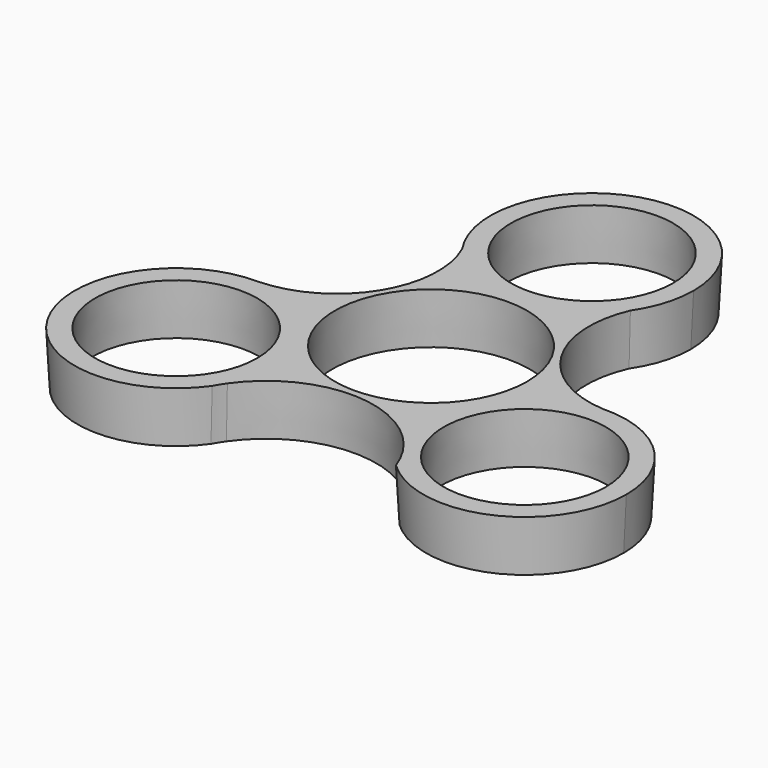
from build123d import *

# Parameters (mm, degrees)
F0_R     = 13.2
F0_R_2   = 11.2
F1_DEPTH = 7
F1_TAPER = -3


with BuildPart() as f1:
    # F0 (on Top) → F1 (new body)
    with BuildSketch(Plane.XY):
        with BuildLine():
            ThreePointArc((10.9010818376, 19.4378948031), (0.0215551002, 13.6814609359), (-10.8767136673, 19.4023324402))
            ThreePointArc((-10.8767136673, 19.4023324402), (-11.7146747863, 6.3266103812), (-23.0513772317, -0.2427019014))
            ThreePointArc((-23.0513772317, -0.2427019014), (-13.8657154546, -4.1881001415), (-10.0800128199, -13.4407216683))
            ThreePointArc((-10.0800128199, -13.4407216683), (-10.4709476124, -16.6294280689), (-11.6205959274, -19.6292592764))
            ThreePointArc((-11.6205959274, -19.6292592764), (-0.9162642999, -13.4149873045), (10.7426883573, -17.5705516067))
            ThreePointArc((10.7426883573, -17.5705516067), (12.4749250479, -5.858500474), (22.8996505618, -0.2462029369))
            ThreePointArc((22.8996505618, -0.2462029369), (11.7615752414, 6.4634627634), (10.9010818376, 19.4378948031))
        make_face()
        Circle(F0_R, mode=Mode.SUBTRACT)
        with BuildLine():
            ThreePointArc((36.4800128199, -13.4407216683), (32.4783609921, -3.9733888389), (22.8996505618, -0.2462029369))
            ThreePointArc((22.8996505618, -0.2462029369), (12.4749250479, -5.858500474), (10.7426883573, -17.5705516067))
            ThreePointArc((10.7426883573, -17.5705516067), (12.8230245623, -20.1337465562), (14.2794462685, -23.096279744))
            ThreePointArc((14.2794462685, -23.096279744), (28.5446363355, -25.5454207244), (36.4800128199, -13.4407216683))
        make_face()
        with Locations((23.2800128199, -13.4407216683)):
            Circle(F0_R_2, mode=Mode.SUBTRACT)
        with BuildLine():
            ThreePointArc((10.9010818376, 19.4378948031), (12.6121822112, 22.9862078018), (13.2, 26.8814433366))
            ThreePointArc((13.2, 26.8814433366), (-3.9158255574, 39.48724796), (-10.8767136673, 19.4023324402))
            ThreePointArc((-10.8767136673, 19.4023324402), (0.0215551002, 13.6814609359), (10.9010818376, 19.4378948031))
        make_face()
        with Locations((0, 26.8814433366)):
            Circle(F0_R_2, mode=Mode.SUBTRACT)
        with BuildLine():
            ThreePointArc((-10.0800128199, -13.4407216683), (-13.8657154546, -4.1881001415), (-23.0513772317, -0.2427019014))
            ThreePointArc((-23.0513772317, -0.2427019014), (-35.0600457348, -19.3964604574), (-12.5159396425, -21.0810573043))
            ThreePointArc((-12.5159396425, -21.0810573043), (-12.0893262179, -20.3421712665), (-11.6205959274, -19.6292592764))
            ThreePointArc((-11.6205959274, -19.6292592764), (-10.4709476124, -16.6294280689), (-10.0800128199, -13.4407216683))
        make_face()
        with Locations((-23.2800128199, -13.4407216683)):
            Circle(F0_R_2, mode=Mode.SUBTRACT)
    extrude(amount=F1_DEPTH, taper=F1_TAPER)


solid = f1.part
